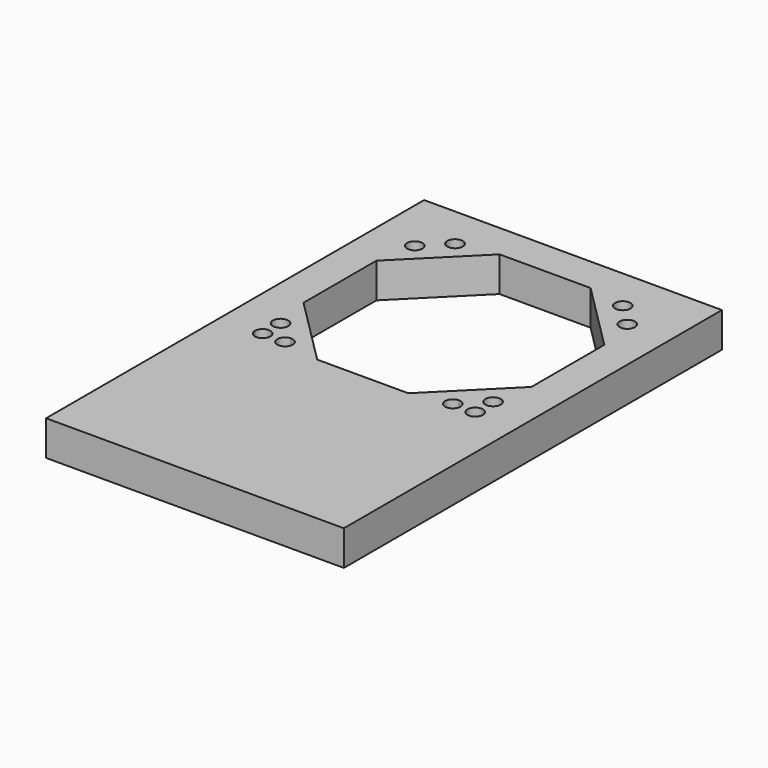
from build123d import *

# Parameters (mm, degrees)
F0_W     = 42.6
F0_H     = 67.6
F0_R     = 1.1
F1_DEPTH = 5


with BuildPart() as f1:
    # F0 (on Top) → F1 (new body)
    with BuildSketch(Plane.XY):
        with Locations((0, -12.5)):
            Rectangle(F0_W, F0_H)
        with BuildLine():
            ThreePointArc((-15.2, -16.3), (-15.977817, -15.977817), (-16.3, -15.2))
            ThreePointArc((-16.3, -15.2), (-15.2, -14.1), (-14.1, -15.2))
            ThreePointArc((-14.1, -15.2), (-14.422183, -15.977817), (-15.2, -16.3))
        make_face(mode=Mode.SUBTRACT)
        with BuildLine():
            ThreePointArc((-10.9, -15.2), (-11.222183, -15.977817), (-12, -16.3))
            ThreePointArc((-12, -16.3), (-13.1, -15.2), (-12, -14.1))
            ThreePointArc((-12, -14.1), (-11.222183, -14.422183), (-10.9, -15.2))
        make_face(mode=Mode.SUBTRACT)
        with BuildLine():
            ThreePointArc((13.1, -15.2), (12.777817, -15.977817), (12, -16.3))
            ThreePointArc((12, -16.3), (10.9, -15.2), (12, -14.1))
            ThreePointArc((12, -14.1), (12.777817, -14.422183), (13.1, -15.2))
        make_face(mode=Mode.SUBTRACT)
        with BuildLine():
            ThreePointArc((15.2, -16.3), (14.422183, -14.422183), (16.3, -15.2))
            ThreePointArc((16.3, -15.2), (15.977817, -15.977817), (15.2, -16.3))
        make_face(mode=Mode.SUBTRACT)
        with BuildLine():
            ThreePointArc((-16.3, -12), (-15.2, -10.9), (-14.1, -12))
            ThreePointArc((-14.1, -12), (-15.2, -13.1), (-16.3, -12))
        make_face(mode=Mode.SUBTRACT)
        with Locations((-15.2, 12)):
            Circle(F0_R, mode=Mode.SUBTRACT)
        with Locations((-12, 15.2)):
            Circle(F0_R, mode=Mode.SUBTRACT)
        Polygon((-16.3, 6.515938), (-6.515938, 16.3), (0, 16.3), (6.515938, 16.3), (16.3, 6.515938), (16.3, 0), (16.3, -6.515938), (6.515938, -16.3), (0, -16.3), (-6.515938, -16.3), (-16.3, -6.515938), (-16.3, 0), align=None, mode=Mode.SUBTRACT)
        with BuildLine():
            ThreePointArc((16.3, -12), (15.2, -13.1), (14.1, -12))
            ThreePointArc((14.1, -12), (15.2, -10.9), (16.3, -12))
        make_face(mode=Mode.SUBTRACT)
        with Locations((15.2, 12)):
            Circle(F0_R, mode=Mode.SUBTRACT)
        with Locations((12, 15.2)):
            Circle(F0_R, mode=Mode.SUBTRACT)
    extrude(amount=F1_DEPTH)


solid = f1.part
